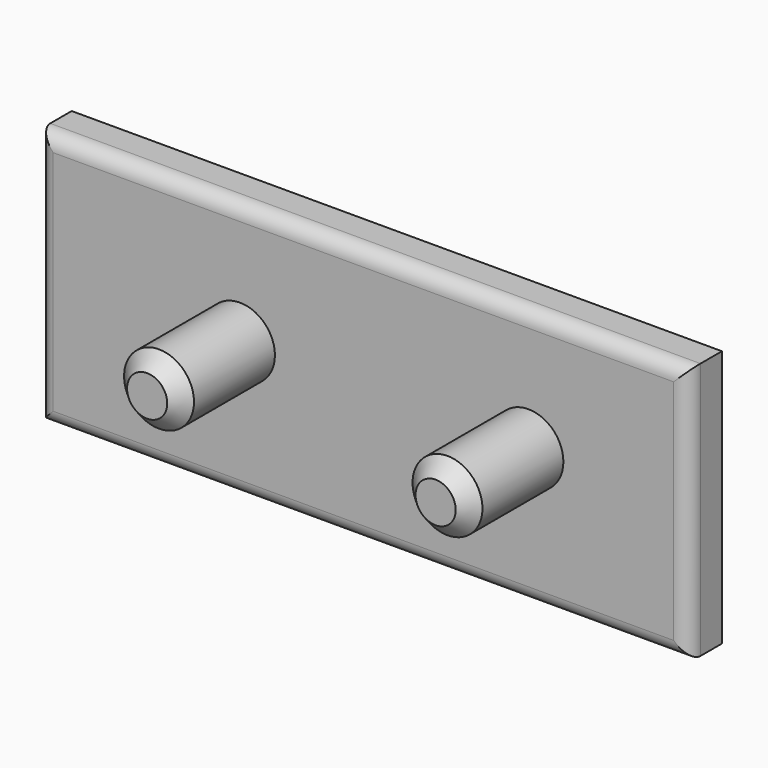
from build123d import *

# Parameters (mm, degrees)
F0_W     = 222.068578
F0_H     = 87.902144
F0_R     = 11.937119
F0_R_2   = 11.938
F1_DEPTH = 7.112
F2_R     = 5.08
F3_DEPTH = 46.736
F4_SIZE  = 5.08


with BuildPart() as f1:
    # F0 (on Front) → F1 (new body, symmetric)
    with BuildSketch(Plane.XZ):
        with Locations((8.572504, -7.892143)):
            Rectangle(F0_W, F0_H)
        with Locations((-33.609644, -5.306785)):
            Circle(F0_R, mode=Mode.SUBTRACT)
        with Locations((64.906068, -5.306785)):
            Circle(F0_R_2, mode=Mode.SUBTRACT)
    extrude(amount=F1_DEPTH, both=True)

    # F2
    f2_edges = [f1.edges().sort_by_distance(p)[0] for p in [
        (8.572504, -7.112, 36.058929),
        (-102.461785, -7.112, -7.892143),
        (8.572504, -7.112, -51.843215),
        (119.606793, -7.112, -7.892143),
    ]]
    fillet(f2_edges, radius=F2_R)

    # F0 (on Front) → F3 (join)
    with BuildSketch(Plane.XZ):
        with Locations((64.906068, -5.306785)):
            Circle(F0_R_2)
        with Locations((-33.609644, -5.306785)):
            Circle(F0_R)
    extrude(amount=F3_DEPTH)

    # F4
    f4_edges = [f1.edges().sort_by_distance(p)[0] for p in [
        (-45.546762, -46.736, -5.306785),
        (52.968068, -46.736, -5.306785),
    ]]
    chamfer(f4_edges, length=F4_SIZE)


solid = f1.part
